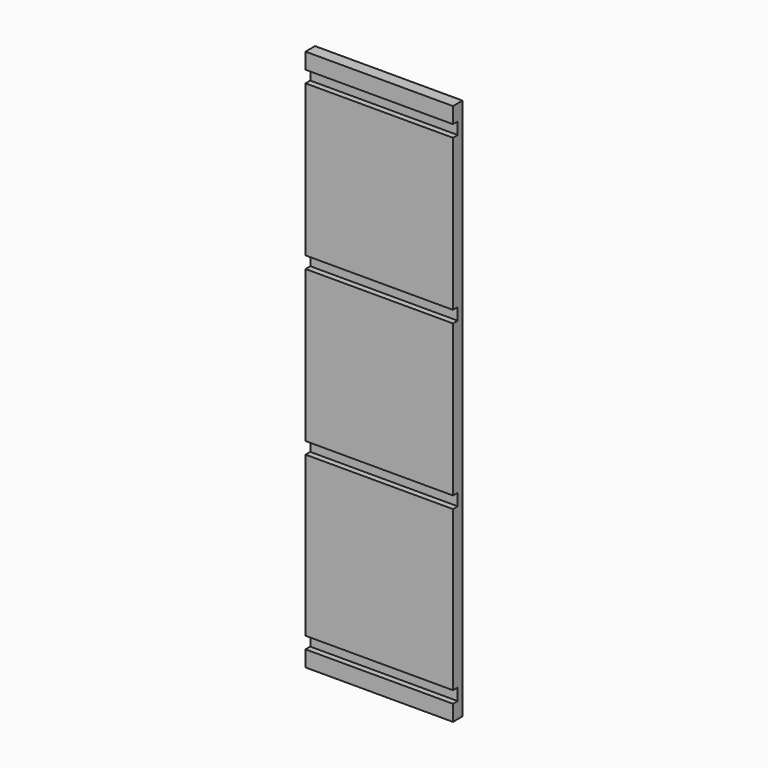
from build123d import *

# Parameters (mm, degrees)
F0_W     = 234.95
F0_H     = 19.05
F1_DEPTH = 863.6
F2_W     = 234.95
F2_H     = 19.05
F3_DEPTH = 9.525


with BuildPart() as f1:
    # F0 (on Top) → F1 (new body)
    with BuildSketch(Plane.XY):
        with Locations((117.475, 9.525)):
            Rectangle(F0_W, F0_H)
    extrude(amount=F1_DEPTH)

    # F2 (on face) → F3 (cut)
    with BuildSketch(Plane.XZ):
        with Locations((117.475, 828.675)):
            Rectangle(F2_W, F2_H)
        with Locations((117.475, 34.925)):
            Rectangle(F2_W, F2_H)
        with Locations((117.475, 307.975)):
            Rectangle(F2_W, F2_H)
        with Locations((117.475, 568.325)):
            Rectangle(F2_W, F2_H)
    extrude(amount=-F3_DEPTH, mode=Mode.SUBTRACT)


solid = f1.part
